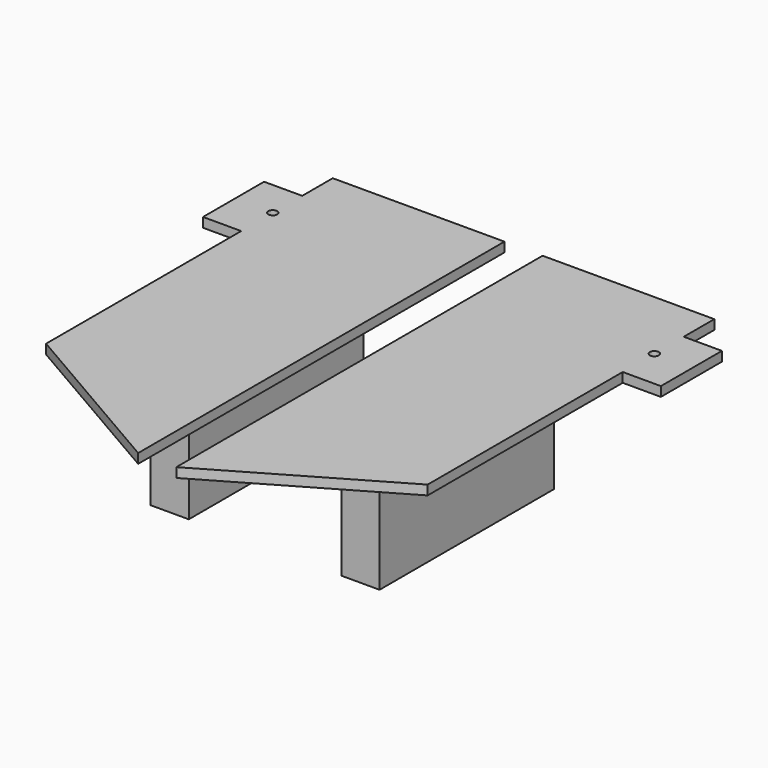
from build123d import *

# Parameters (mm, degrees)
F2_W      = 152.4
F2_H      = 3.175
F3_DEPTH  = 69.85
F4_W      = 12.7
F4_H      = 114.3
F4_H_2    = 12.7
F5_DEPTH  = 254
F6_W      = 50.8
F6_H      = 22.225
F7_DEPTH  = 254
F9_DEPTH  = 254
F10_R     = 1.4986
F11_DEPTH = 254
F13_W     = 12.7
F13_H     = 72.5932
F14_DEPTH = 40.6908


with BuildPart() as f3:
    # F2 (on offset) → F3 (new body)
    with BuildSketch(Plane.YZ.offset(76.2)):
        with Locations((137.088685, 1.5875)):
            Rectangle(F2_W, F2_H)
    extrude(amount=-F3_DEPTH)

    # F4 (on face) → F5 (cut)
    with BuildSketch(Plane.XY.offset(3.175)):
        with Locations((69.85, 118.038685)):
            Rectangle(F4_W, F4_H)
        with Locations((69.85, 206.938685)):
            Rectangle(F4_W, F4_H_2)
    extrude(amount=-F5_DEPTH, mode=Mode.SUBTRACT)

    # F6 (on face) → F7 (cut)
    with BuildSketch(Plane.XZ.offset(-60.888685)):
        with Locations((31.75, 14.2875)):
            Rectangle(F6_W, F6_H)
    extrude(amount=-F7_DEPTH, mode=Mode.SUBTRACT)

    # F8 (on face) → F9 (cut)
    with BuildSketch(Plane.XY.offset(3.175)):
        Polygon((63.5, 94.017021), (6.35, 60.888685), (63.5, 60.888685), align=None)
    extrude(amount=-F9_DEPTH, mode=Mode.SUBTRACT)

    # F10 (on face) → F11 (cut)
    with BuildSketch(Plane.XY.offset(3.175)):
        with Locations((63.5, 188.366249)):
            Circle(F10_R)
    extrude(amount=-F11_DEPTH, mode=Mode.SUBTRACT)

    # F13 (on Top) → F14 (join)
    with BuildSketch(Plane.XY):
        with Locations((31.75, 142.067085)):
            Rectangle(F13_W, F13_H)
    extrude(amount=-F14_DEPTH)


with BuildPart() as f15_1:
    # F15: instance of F3
    add(f3.part.mirror(Plane.YZ))


solid = Compound([f3.part, f15_1.part])
